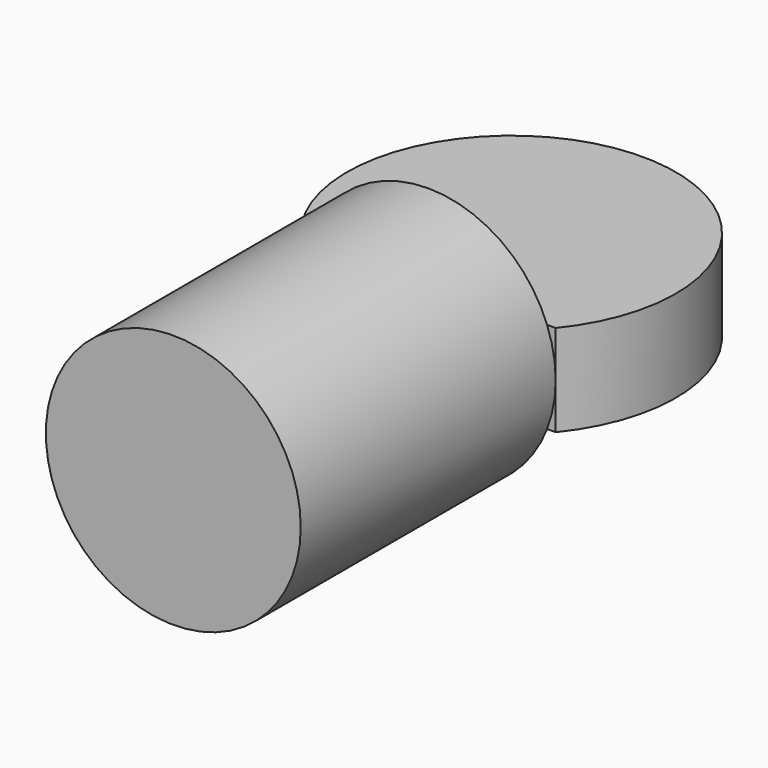
from build123d import *

# Parameters (mm, degrees)
F0_R     = 2.54
F1_DEPTH = 6.35
F5_DEPTH = 0.9144


with BuildPart() as f1:
    # F0 (on Front) → F1 (new body)
    with BuildSketch(Plane.XZ):
        with Locations((-3.782189, 2.154453)):
            Circle(F0_R)
    extrude(amount=F1_DEPTH)

    # F4 (on face) → F5 (join, symmetric)
    with BuildSketch(Plane.XY.offset(2.154453)):
        with BuildLine():
            Line((-6.322189, 0), (-1.242189, 0))
            ThreePointArc((-1.242189, 0), (-3.782189, 5.35153), (-6.322189, 0))
        make_face()
    extrude(amount=F5_DEPTH, both=True)


solid = f1.part
